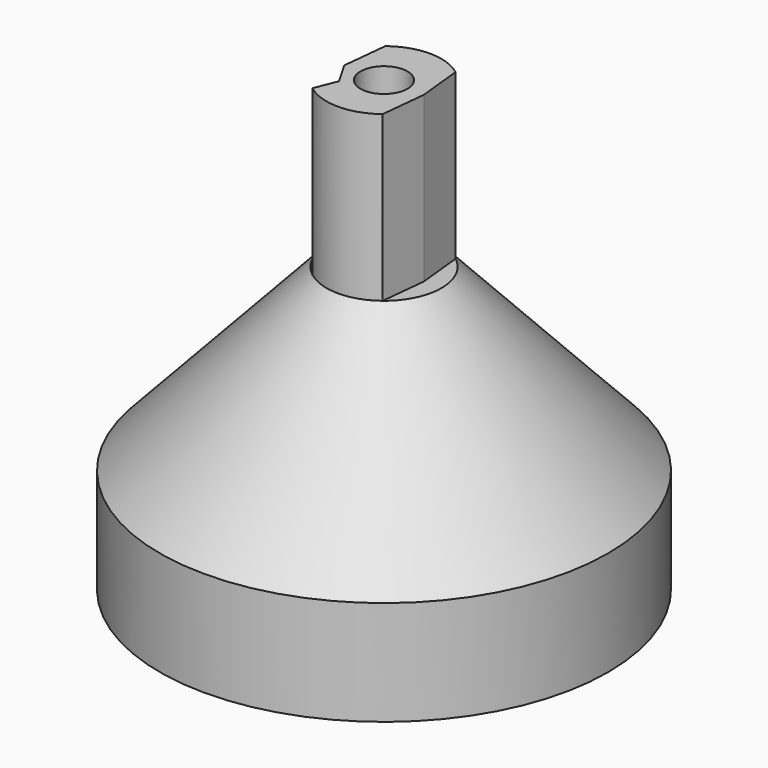
from build123d import *

# Parameters (mm, degrees)
SKETCH002_R  = 1.575
PAD_DEPTH    = 11
SKETCH_R     = 15
SKETCH_R_2   = 12
PAD001_DEPTH = 7


with BuildPart() as aufnahme:
    # Sketch002 → Pad (new body)
    with BuildSketch(Plane.XY):
        with BuildLine():
            Line((-2.35, 3.04959), (-2.664011, 0))
            Line((-2.664011, 0), (-1.754925, -1.564367))
            Line((-2.350001, -3.04959), (-1.754925, -1.564367))
            ThreePointArc((-2.350001, -3.04959), (0, -3.85), (2.35, -3.04959))
            Line((2.664011, 0), (2.35, -3.04959))
            Line((2.35, 3.04959), (2.664011, 0))
            ThreePointArc((2.35, 3.04959), (0, 3.85), (-2.35, 3.04959))
        make_face()
        Circle(SKETCH002_R, mode=Mode.SUBTRACT)
    extrude(amount=PAD_DEPTH)


with BuildPart() as aufnahme_1:
    # Body placement: moved
    add(aufnahme.part.moved(Location((0, 0, 19))))


with BuildPart() as oben1:
    # Sketch → Pad001 (new body)
    with BuildSketch(Plane.XY):
        Circle(SKETCH_R)
        Circle(SKETCH_R_2, mode=Mode.SUBTRACT)
    extrude(amount=PAD001_DEPTH)


with BuildPart() as kegel001:
    # Cone001 → Cone001 (revolve)
    with BuildSketch(Plane(origin=(0, 0, 7), x_dir=(1, 0, 0), z_dir=(0, -1, 0))):
        Polygon((0, 0), (12, 0), (1.575, 12), (0, 12), align=None)
    revolve(axis=Axis((0, 0, 7), (0, 0, 1)))


with BuildPart() as cut:
    # Cone → Cone (revolve)
    with BuildSketch(Plane(origin=(0, 0, 7), x_dir=(1, 0, 0), z_dir=(0, -1, 0))):
        Polygon((0, 0), (15, 0), (3.85, 12), (0, 12), align=None)
    revolve(axis=Axis((0, 0, 7), (0, 0, 1)))

    # Cut: cut Kegel001
    add(kegel001.part, mode=Mode.SUBTRACT)


solid = Compound([aufnahme_1.part, oben1.part, cut.part])
